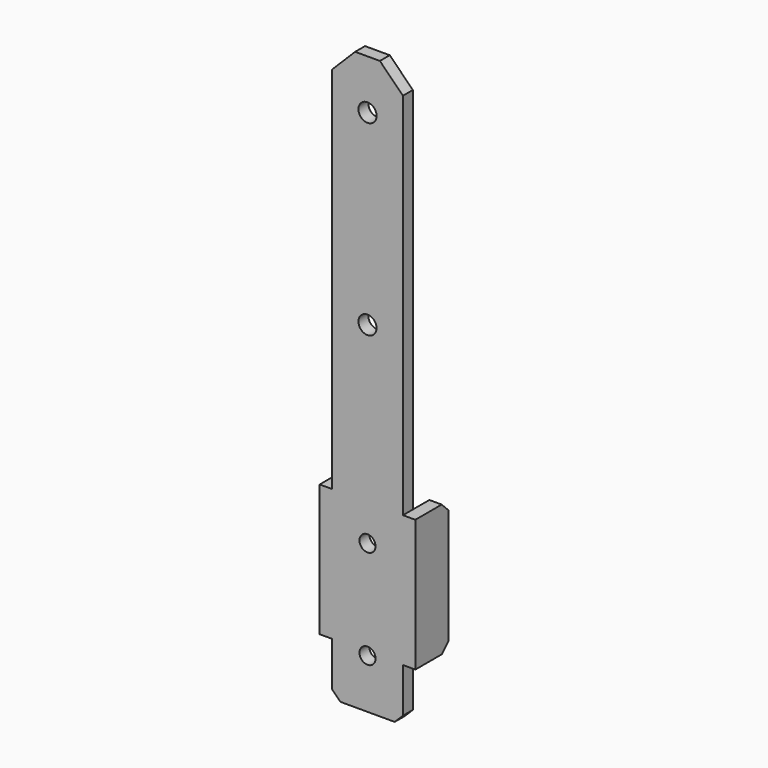
from build123d import *

# Parameters (mm, degrees)
SKETCH006_W              = 8.6
SKETCH006_H              = 70
SKETCH006_R              = 1.1
SKETCH006_R_2            = 0.975
PAD005_DEPTH             = 1.5
SKETCH007_W              = 1.5
SKETCH007_H              = 16
PAD006_DEPTH             = 5
CHAMFER001_SIZE          = 2.8
CHAMFER002_SIZE          = 1
CLONE002_PLACEMENT_ANGLE = 180


with BuildPart() as part:
    # Sketch006 (on Face74 of Binder003) → Pad005 (new body)
    with BuildSketch(Plane(origin=(-7.1e-05, -19.1, 0.000123), x_dir=(1, -4e-06, 0), z_dir=(-4e-06, -1, 6e-06))):
        with Locations((12.106057, -34.481964)):
            Rectangle(SKETCH006_W, SKETCH006_H)
        with Locations((12.106057, -5.481964)):
            Circle(SKETCH006_R, mode=Mode.SUBTRACT)
        with Locations((12.106057, -28.152043)):
            Circle(SKETCH006_R, mode=Mode.SUBTRACT)
        with Locations((12.106057, -51.481964)):
            Circle(SKETCH006_R_2, mode=Mode.SUBTRACT)
        with Locations((12.106057, -63.481964)):
            Circle(SKETCH006_R_2, mode=Mode.SUBTRACT)
    extrude(amount=PAD005_DEPTH)

    # Sketch007 (on Face9 of Pad005) → Pad006 (join)
    with BuildSketch(Plane(origin=(-7.1e-05, -19.1, 0.000123), x_dir=(-1, 4e-06, 0), z_dir=(4e-06, 1, -6e-06))):
        with Locations((-17.156057, -55.081964)):
            Rectangle(SKETCH007_W, SKETCH007_H)
        with Locations((-7.056057, -55.081964)):
            Rectangle(SKETCH007_W, SKETCH007_H)
    extrude(amount=-PAD006_DEPTH)

    # Chamfer001
    chamfer001_edges = [part.edges().sort_by_distance(p)[0] for p in [
        (16.405983, -19.850058, 0.518165),
        (7.805983, -19.850026, 0.518165),
    ]]
    chamfer(chamfer001_edges, length=CHAMFER001_SIZE)

    # Chamfer002
    chamfer002_edges = [part.edges().sort_by_distance(p)[0] for p in [
        (17.155967, -24.100368, -47.081808),
        (17.155967, -24.100471, -63.081808),
        (7.055967, -24.100433, -63.081808),
        (7.055967, -24.10033, -47.081808),
        (16.405983, -19.850509, -69.481835),
        (7.805983, -19.850477, -69.481835),
    ]]
    chamfer(chamfer002_edges, length=CHAMFER002_SIZE)


with BuildPart() as part_1:
    # Clone002 placement: moved
    add(part.part.moved(Location((6.2, 0, 10.4))).rotate(Axis((6.2, 0, 10.4), (0, 0, 1)), CLONE002_PLACEMENT_ANGLE))


solid = part_1.part
